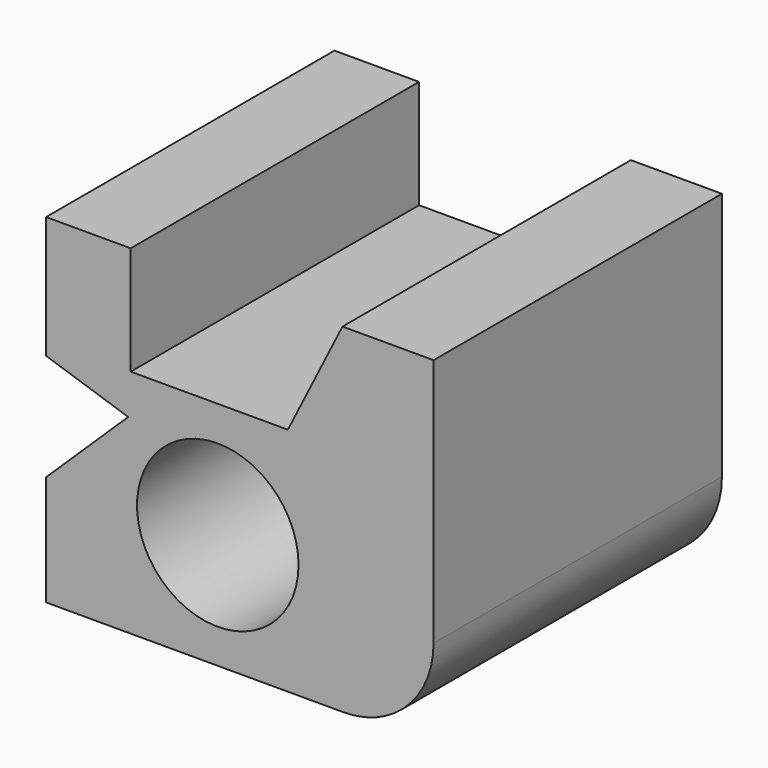
from build123d import *

# Parameters (mm, degrees)
F0_R     = 11.380259
F1_DEPTH = 50.8


with BuildPart() as f1:
    # F0 (on Front) → F1 (new body)
    with BuildSketch(Plane.XZ):
        with BuildLine():
            Line((-42.685506, 26.217468), (-54.612678, 26.217468))
            Line((-54.612678, 26.217468), (-54.612678, 8.996693))
            Line((-54.612678, 8.996693), (-43.042839, 5.175187))
            Line((-43.042839, 5.175187), (-54.612678, -6.061751))
            Line((-54.612678, -6.061751), (-54.612678, -21.593322))
            Line((-54.612678, -21.593322), (-12.7, -21.593322))
            ThreePointArc((-12.7, -21.593322), (-3.719744, -17.873578), (0, -8.893322))
            Line((0, -8.893322), (0, 26.217468))
            Line((0, 26.217468), (-12.834665, 26.217468))
            Line((-12.834665, 26.217468), (-20.538239, 10.913563))
            Line((-20.538239, 10.913563), (-42.685506, 10.913563))
            Line((-42.685506, 10.913563), (-42.685506, 26.217468))
        make_face()
        with Locations((-30.412134, -5.377338)):
            Circle(F0_R, mode=Mode.SUBTRACT)
    extrude(amount=F1_DEPTH)


solid = f1.part
